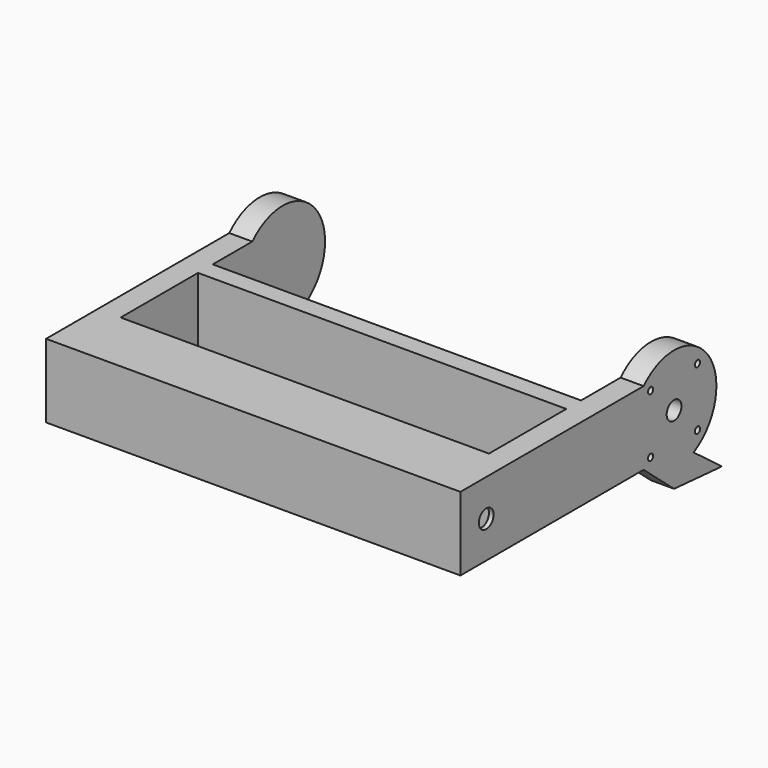
from build123d import *

# Parameters (mm, degrees)
F0_W      = 90
F0_H      = 74
F1_DEPTH  = 8
F2_W      = 10
F2_H      = 12
F3_DEPTH  = 44
F4_W      = 80
F4_H      = 21
F5_DEPTH  = 25
F6_DEPTH  = 7
F7_W      = 70
F7_H      = 12
F8_DEPTH  = 3
F9_R      = 2
F10_DEPTH = 50
F11_W     = 80
F11_H     = 38
F12_DEPTH = 25
F13_R     = 2
F13_R_2   = 0.7
F14_DEPTH = 25
F15_W     = 5
F15_H     = 35
F16_DEPTH = 5
F17_W     = 5
F17_H     = 35
F18_DEPTH = 20
F20_DEPTH = 50


with BuildPart() as f1:
    # F0 (on Top) → F1 (new body, symmetric)
    with BuildSketch(Plane.XY):
        with Locations((0, 30)):
            Rectangle(F0_W, F0_H)
    extrude(amount=F1_DEPTH, both=True)

    # F2 (on Right) → F3 (cut, symmetric)
    with BuildSketch(Plane.YZ):
        Rectangle(F2_W, F2_H)
    extrude(amount=F3_DEPTH, both=True, mode=Mode.SUBTRACT)

    # F4 (on Top) → F5 (cut)
    with BuildSketch(Plane.XY):
        with Locations((0, 17.5)):
            Rectangle(F4_W, F4_H)
    extrude(amount=F5_DEPTH, mode=Mode.SUBTRACT)

    # F4 (on Top) → F6 (cut)
    with BuildSketch(Plane.XY):
        with Locations((0, 17.5)):
            Rectangle(F4_W, F4_H)
    extrude(amount=-F6_DEPTH, mode=Mode.SUBTRACT)

    # F7 (on face) → F8 (cut)
    with BuildSketch(Plane(origin=(0, 7, 0), x_dir=(-1, 0, 0), z_dir=(0, 1, 0))):
        Rectangle(F7_W, F7_H)
    extrude(amount=-F8_DEPTH, mode=Mode.SUBTRACT)

    # F9 (on Right) → F10 (cut, symmetric)
    with BuildSketch(Plane.YZ):
        Circle(F9_R)
    extrude(amount=F10_DEPTH, both=True, mode=Mode.SUBTRACT)

    # F11 (on face) → F12 (cut)
    with BuildSketch(Plane.XY.offset(8)):
        with Locations((0, 51)):
            Rectangle(F11_W, F11_H)
    extrude(amount=-F12_DEPTH, mode=Mode.SUBTRACT)

    # F13 (on face) → F14 (cut)
    with BuildSketch(Plane.YZ.offset(45)):
        with Locations((51, 0)):
            Circle(F13_R)
        with Locations((44.636039, 6.363961)):
            Circle(F13_R_2)
        with Locations((57.363961, 6.363961)):
            Circle(F13_R_2)
        with Locations((44.636039, -6.363961)):
            Circle(F13_R_2)
        with Locations((57.363961, -6.363961)):
            Circle(F13_R_2)
    extrude(amount=-F14_DEPTH, mode=Mode.SUBTRACT)

    # F15 (on face) → F16 (join)
    with BuildSketch(Plane.XY.offset(8)):
        with Locations((42.5, 49.5)):
            Rectangle(F15_W, F15_H)
        with Locations((-42.5, 49.5)):
            Rectangle(F15_W, F15_H)
    extrude(amount=F16_DEPTH)

    # F17 (on face) → F18 (join)
    with BuildSketch(Plane(origin=(0, 0, -8), x_dir=(1, 0, 0), z_dir=(0, 0, -1))):
        with Locations((42.5, -49.5)):
            Rectangle(F17_W, F17_H)
        with Locations((-42.5, -49.5)):
            Rectangle(F17_W, F17_H)
    extrude(amount=F18_DEPTH)

    # F19 (on Right) → F20 (cut, symmetric)
    with BuildSketch(Plane.YZ):
        with BuildLine():
            Line((56.306477, -10.202515), (64, -16))
            Line((64, -16), (51, -15))
            Line((51, -15), (42.738644, -8))
            Line((42.738644, -8), (30.108895, -8))
            Line((30.108895, -8), (30.108895, -29.582262))
            Line((30.108895, -29.582262), (71.439214, -31.000461))
            Line((71.439214, -31.000461), (73.09068, 17.127901))
            Line((73.09068, 17.127901), (30.442541, 17.835671))
            Line((30.442541, 17.835671), (30.442541, 8))
            Line((30.442541, 8), (42.738644, 8))
            ThreePointArc((42.738644, 8), (60.220396, 6.872721), (56.306477, -10.202515))
        make_face()
    extrude(amount=F20_DEPTH, both=True, mode=Mode.SUBTRACT)


solid = f1.part
